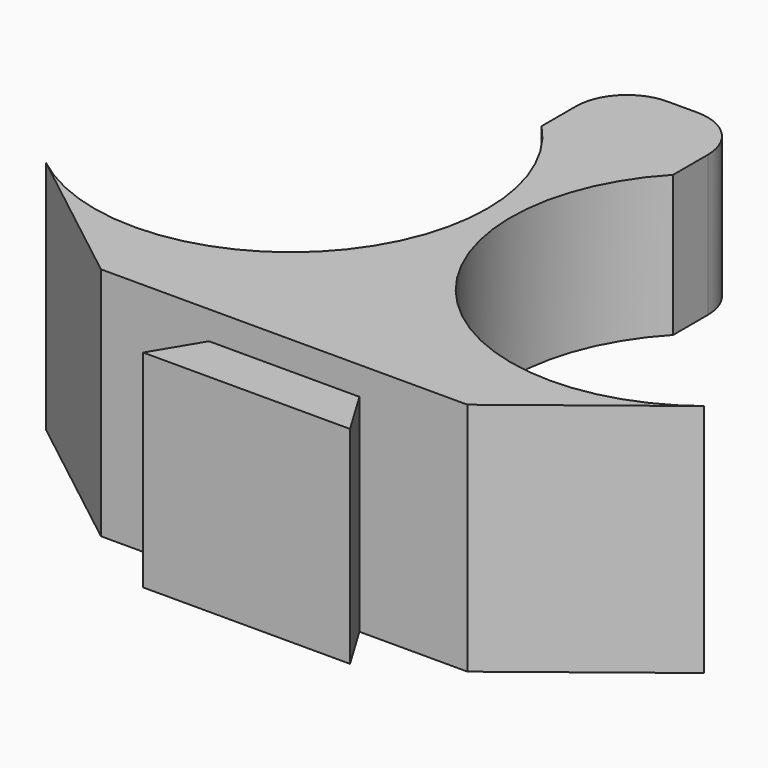
from build123d import *

# Parameters (mm, degrees)
F1_DEPTH = 19.05
F3_DEPTH = 12.7
F4_DEPTH = 12.7
F5_W     = 3.81
F5_H     = 27.94
F5_W_2   = 20.32
F6_DEPTH = 6.35
F8_DEPTH = 40.386
F9_R     = 6.858


with BuildPart() as f1:
    # F0 (on Top) → F1 (new body)
    with BuildSketch(Plane.XY):
        with BuildLine():
            ThreePointArc((19.2405, 18.2848026719), (24.6498624793, 9.844548174), (26.543, 0))
            ThreePointArc((26.543, 0), (11.6482264852, -23.8505695687), (-16.3195, -20.9333410795))
            Line((-16.3195, -20.9333410795), (3.3713763961, -36.2842234889))
            Line((3.3713763961, -36.2842234889), (52.8896236039, -36.2842234889))
            Line((52.8896236039, -36.2842234889), (72.5805, -20.9333410795))
            ThreePointArc((72.5805, -20.9333410795), (36.597613718, -17.8292481312), (37.0205, 18.2848026719))
            Line((37.0205, 18.2848026719), (19.2405, 18.2848026719))
        make_face()
    extrude(amount=F1_DEPTH)

    # F2 (on face) → F3 (join)
    with BuildSketch(Plane(origin=(0, 0, 0), x_dir=(1, 0, 0), z_dir=(0, 0, -1))):
        with BuildLine():
            ThreePointArc((-16.3195, 20.9333410795), (11.6482264852, 23.8505695687), (26.543, 0))
            Line((26.543, 0), (29.718, 0))
            ThreePointArc((29.718, 0), (44.6127735148, 23.8505695687), (72.5805, 20.9333410795))
            Line((72.5805, 20.9333410795), (52.8896236039, 36.2842234889))
            Line((52.8896236039, 36.2842234889), (3.3713763961, 36.2842234889))
            Line((3.3713763961, 36.2842234889), (-16.3195, 20.9333410795))
        make_face()
    extrude(amount=F3_DEPTH)

    # F4 (add): a face of the model
    f4_faces = [f1.faces().sort_by_distance(p)[0] for p in [
        (28.1305, 18.2848026719, 9.525),
    ]]
    extrude(f4_faces, amount=F4_DEPTH)

    # F5 (on face) → F6 (join)
    with BuildSketch(Plane.XZ.offset(36.2842234889)):
        with Locations((40.1955, 1.27)):
            Rectangle(F5_W, F5_H)
        with Locations((28.1305, 1.27)):
            Rectangle(F5_W_2, F5_H)
        with Locations((16.0655, 1.27)):
            Rectangle(F5_W, F5_H)
    extrude(amount=F6_DEPTH)

    # F7 (on face) → F8 (cut)
    with BuildSketch(Plane(origin=(0, 0, -12.7), x_dir=(1, 0, 0), z_dir=(0, 0, -1))):
        Polygon((42.1005, 42.6342234889), (38.2905, 36.2842234889), (42.1005, 36.2842234889), (42.1005, 42.0675911009), align=None)
        Polygon((17.9705, 36.2842234889), (14.1605, 42.6342234889), (14.1605, 36.2842234889), align=None)
    extrude(amount=-F8_DEPTH, mode=Mode.SUBTRACT)

    # F9
    f9_edges = [f1.edges().sort_by_distance(p)[0] for p in [
        (37.0205, 30.984803, 9.525),
        (19.2405, 30.984803, 9.525),
    ]]
    fillet(f9_edges, radius=F9_R)


solid = f1.part
